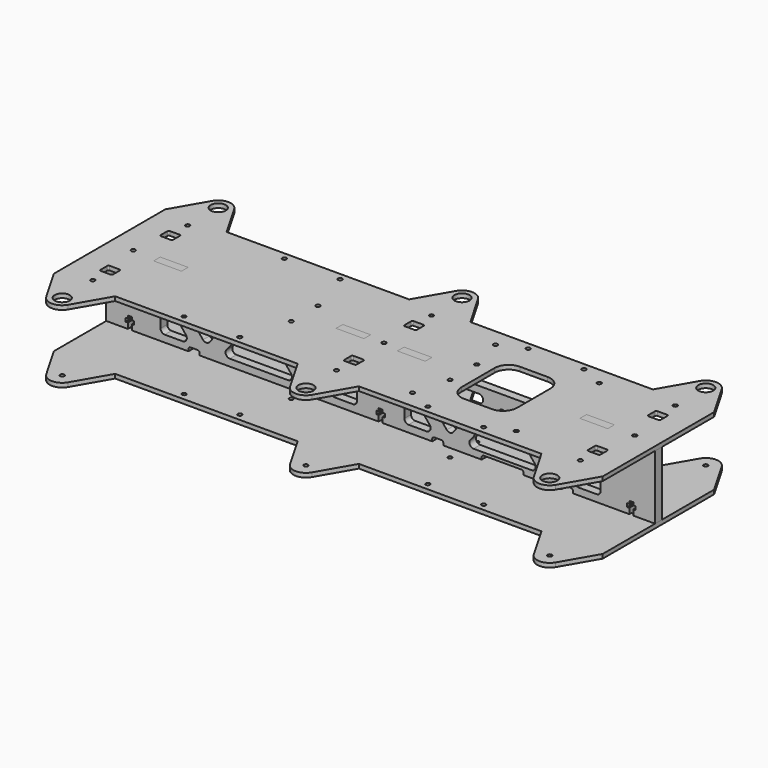
from build123d import *

# Parameters (mm, degrees)
F2_R      = 5.4
F2_R_2    = 1.5
F3_DEPTH  = 3
F5_R      = 1.5
F6_DEPTH  = 3
F7_R      = 1.5
F8_DEPTH  = 3
F11_DEPTH = 3
F13_R     = 1.5
F14_DEPTH = 52.001
F15_R     = 1.5
F16_DEPTH = 3
F18_DEPTH = 82.0535588833
F19_R     = 1.5
F20_DEPTH = 3


with BuildPart() as f3:
    # F2 (on Top) → F3 (new body)
    with BuildSketch(Plane.XY):
        with BuildLine():
            Line((22, -20), (7.8397459622, 4.5262794416))
            ThreePointArc((7.8397459622, 4.5262794416), (0, 9.0525588833), (-7.8397459622, 4.5262794416))
            Line((-7.8397459622, 4.5262794416), (-22, -20))
            Line((-22, -20), (-153, -20))
            Line((-153, -20), (-167.1602540378, 4.5262794416))
            ThreePointArc((-167.1602540378, 4.5262794416), (-175, 9.0525588833), (-182.8397459622, 4.5262794416))
            Line((-182.8397459622, 4.5262794416), (-197, -20))
            Line((-197, -20), (-328, -20))
            Line((-328, -20), (-342.1602540378, 4.5262794416))
            ThreePointArc((-342.1602540378, 4.5262794416), (-350, 9.0525588833), (-357.8397459622, 4.5262794416))
            Line((-357.8397459622, 4.5262794416), (-372, -20))
            Line((-372, -20), (-372, -70))
            Line((-372, -70), (-372, -120))
            Line((-372, -120), (-357.8397459622, -144.5262794416))
            ThreePointArc((-357.8397459622, -144.5262794416), (-350, -149.0525588833), (-342.1602540378, -144.5262794416))
            Line((-342.1602540378, -144.5262794416), (-328, -120))
            Line((-328, -120), (-197, -120))
            Line((-197, -120), (-182.8397459622, -144.5262794416))
            ThreePointArc((-182.8397459622, -144.5262794416), (-175, -149.0525588833), (-167.1602540378, -144.5262794416))
            Line((-167.1602540378, -144.5262794416), (-153, -120))
            Line((-153, -120), (-22, -120))
            Line((-22, -120), (-7.8397459622, -144.5262794416))
            ThreePointArc((-7.8397459622, -144.5262794416), (0, -149.0525588833), (7.8397459622, -144.5262794416))
            Line((7.8397459622, -144.5262794416), (22, -120))
            Line((22, -120), (22, -70))
            Line((22, -70), (22, -20))
        make_face()
        with Locations((-350, -140)):
            Circle(F2_R, mode=Mode.SUBTRACT)
        with Locations((-350, -112.57)):
            Circle(F2_R_2, mode=Mode.SUBTRACT)
        with Locations((-282.5, -115)):
            Circle(F2_R_2, mode=Mode.SUBTRACT)
        with Locations((-175, -140)):
            Circle(F2_R, mode=Mode.SUBTRACT)
        with Locations((-242.5, -115)):
            Circle(F2_R_2, mode=Mode.SUBTRACT)
        with Locations((-175, -112.57)):
            Circle(F2_R_2, mode=Mode.SUBTRACT)
        with BuildLine():
            ThreePointArc((-346.5, -93), (-345.7928932188, -93.2928932188), (-345.5, -94))
            Line((-345.5, -94), (-345.5, -100))
            ThreePointArc((-345.5, -100), (-345.7928932188, -100.7071067812), (-346.5, -101))
            Line((-346.5, -101), (-353.5, -101))
            ThreePointArc((-353.5, -101), (-354.2071067812, -100.7071067812), (-354.5, -100))
            Line((-354.5, -100), (-354.5, -94))
            ThreePointArc((-354.5, -94), (-354.2071067812, -93.2928932188), (-353.5, -93))
            Line((-353.5, -93), (-346.5, -93))
        make_face(mode=Mode.SUBTRACT)
        with BuildLine():
            Line((-179.5, -100), (-179.5, -94))
            ThreePointArc((-179.5, -94), (-179.2071067812, -93.2928932188), (-178.5, -93))
            Line((-178.5, -93), (-171.5, -93))
            ThreePointArc((-171.5, -93), (-170.7928932188, -93.2928932188), (-170.5, -94))
            Line((-170.5, -94), (-170.5, -100))
            ThreePointArc((-170.5, -100), (-170.7928932188, -100.7071067812), (-171.5, -101))
            Line((-171.5, -101), (-178.5, -101))
            ThreePointArc((-178.5, -101), (-179.2071067812, -100.7071067812), (-179.5, -100))
        make_face(mode=Mode.SUBTRACT)
        with Locations((-107.5, -115)):
            Circle(F2_R_2, mode=Mode.SUBTRACT)
        with Locations((0, -140)):
            Circle(F2_R, mode=Mode.SUBTRACT)
        with Locations((-67.5, -115)):
            Circle(F2_R_2, mode=Mode.SUBTRACT)
        with Locations((0, -112.57)):
            Circle(F2_R_2, mode=Mode.SUBTRACT)
        with BuildLine():
            ThreePointArc((3.5, -93), (4.2071067812, -93.2928932188), (4.5, -94))
            Line((4.5, -94), (4.5, -100))
            ThreePointArc((4.5, -100), (4.2071067812, -100.7071067812), (3.5, -101))
            Line((3.5, -101), (-3.5, -101))
            ThreePointArc((-3.5, -101), (-4.2071067812, -100.7071067812), (-4.5, -100))
            Line((-4.5, -100), (-4.5, -94))
            ThreePointArc((-4.5, -94), (-4.2071067812, -93.2928932188), (-3.5, -93))
            Line((-3.5, -93), (3.5, -93))
        make_face(mode=Mode.SUBTRACT)
        with BuildLine():
            Line((-353.5, -39), (-346.5, -39))
            ThreePointArc((-346.5, -39), (-345.7928932188, -39.2928932188), (-345.5, -40))
            Line((-345.5, -40), (-345.5, -46))
            ThreePointArc((-345.5, -46), (-345.7928932188, -46.7071067812), (-346.5, -47))
            Line((-346.5, -47), (-353.5, -47))
            ThreePointArc((-353.5, -47), (-354.2071067812, -46.7071067812), (-354.5, -46))
            Line((-354.5, -46), (-354.5, -40))
            ThreePointArc((-354.5, -40), (-354.2071067812, -39.2928932188), (-353.5, -39))
        make_face(mode=Mode.SUBTRACT)
        with BuildLine():
            Line((-178.5, -39), (-171.5, -39))
            ThreePointArc((-171.5, -39), (-170.7928932188, -39.2928932188), (-170.5, -40))
            Line((-170.5, -40), (-170.5, -46))
            ThreePointArc((-170.5, -46), (-170.7928932188, -46.7071067812), (-171.5, -47))
            Line((-171.5, -47), (-178.5, -47))
            ThreePointArc((-178.5, -47), (-179.2071067812, -46.7071067812), (-179.5, -46))
            Line((-179.5, -46), (-179.5, -40))
            ThreePointArc((-179.5, -40), (-179.2071067812, -39.2928932188), (-178.5, -39))
        make_face(mode=Mode.SUBTRACT)
        with Locations((-350, -27.43)):
            Circle(F2_R_2, mode=Mode.SUBTRACT)
        with Locations((-282.5, -25)):
            Circle(F2_R_2, mode=Mode.SUBTRACT)
        with Locations((-350, 0)):
            Circle(F2_R, mode=Mode.SUBTRACT)
        with Locations((-242.5, -25)):
            Circle(F2_R_2, mode=Mode.SUBTRACT)
        with Locations((-175, -27.43)):
            Circle(F2_R_2, mode=Mode.SUBTRACT)
        with Locations((-175, 0)):
            Circle(F2_R, mode=Mode.SUBTRACT)
        with BuildLine():
            ThreePointArc((4.5, -46), (4.2071067812, -46.7071067812), (3.5, -47))
            Line((3.5, -47), (-3.5, -47))
            ThreePointArc((-3.5, -47), (-4.2071067812, -46.7071067812), (-4.5, -46))
            Line((-4.5, -46), (-4.5, -40))
            ThreePointArc((-4.5, -40), (-4.2071067812, -39.2928932188), (-3.5, -39))
            Line((-3.5, -39), (3.5, -39))
            ThreePointArc((3.5, -39), (4.2071067812, -39.2928932188), (4.5, -40))
            Line((4.5, -40), (4.5, -46))
        make_face(mode=Mode.SUBTRACT)
        with Locations((-107.5, -25)):
            Circle(F2_R_2, mode=Mode.SUBTRACT)
        with Locations((-67.5, -25)):
            Circle(F2_R_2, mode=Mode.SUBTRACT)
        with Locations((0, -27.43)):
            Circle(F2_R_2, mode=Mode.SUBTRACT)
        Circle(F2_R, mode=Mode.SUBTRACT)
    extrude(amount=F3_DEPTH)

    # F7 (on face) → F8 (cut, through all)
    with BuildSketch(Plane.XY.offset(3)):
        with Locations((-124.75, -32.75)):
            Circle(F7_R)
        with Locations((-50.25, -32.75)):
            Circle(F7_R)
        with Locations((-50.25, -107.25)):
            Circle(F7_R)
        with Locations((-124.75, -107.25)):
            Circle(F7_R)
    extrude(amount=-F8_DEPTH, mode=Mode.SUBTRACT)


with BuildPart() as f6:
    # F5 (on offset) → F6 (new body)
    with BuildSketch(Plane(origin=(0, 0, -46), x_dir=(1, 0, 0), z_dir=(0, 0, -1))):
        with BuildLine():
            ThreePointArc((-7.8397459622, -4.5262794416), (0, -9.0525588833), (7.8397459622, -4.5262794416))
            Line((7.8397459622, -4.5262794416), (22, 20))
            Line((22, 20), (22, 120))
            Line((22, 120), (7.8397459622, 144.5262794416))
            ThreePointArc((7.8397459622, 144.5262794416), (0, 149.0525588833), (-7.8397459622, 144.5262794416))
            Line((-7.8397459622, 144.5262794416), (-22, 120))
            Line((-22, 120), (-153, 120))
            Line((-153, 120), (-167.1602540378, 144.5262794416))
            ThreePointArc((-167.1602540378, 144.5262794416), (-175, 149.0525588833), (-182.8397459622, 144.5262794416))
            Line((-182.8397459622, 144.5262794416), (-197, 120))
            Line((-197, 120), (-328, 120))
            Line((-328, 120), (-342.1602540378, 144.5262794416))
            ThreePointArc((-342.1602540378, 144.5262794416), (-350, 149.0525588833), (-357.8397459622, 144.5262794416))
            Line((-357.8397459622, 144.5262794416), (-372, 120))
            Line((-372, 120), (-372, 20))
            Line((-372, 20), (-357.8397459622, -4.5262794416))
            ThreePointArc((-357.8397459622, -4.5262794416), (-350, -9.0525588833), (-342.1602540378, -4.5262794416))
            Line((-342.1602540378, -4.5262794416), (-328, 20))
            Line((-328, 20), (-197, 20))
            Line((-197, 20), (-182.8397459622, -4.5262794416))
            ThreePointArc((-182.8397459622, -4.5262794416), (-175, -9.0525588833), (-167.1602540378, -4.5262794416))
            Line((-167.1602540378, -4.5262794416), (-153, 20))
            Line((-153, 20), (-22, 20))
            Line((-22, 20), (-7.8397459622, -4.5262794416))
        make_face()
        with Locations((-350, 0)):
            Circle(F5_R, mode=Mode.SUBTRACT)
        with Locations((-282.5, 25)):
            Circle(F5_R, mode=Mode.SUBTRACT)
        with Locations((-175, 0)):
            Circle(F5_R, mode=Mode.SUBTRACT)
        with Locations((-242.5, 25)):
            Circle(F5_R, mode=Mode.SUBTRACT)
        with Locations((-107.5, 25)):
            Circle(F5_R, mode=Mode.SUBTRACT)
        Circle(F5_R, mode=Mode.SUBTRACT)
        with Locations((-67.5, 25)):
            Circle(F5_R, mode=Mode.SUBTRACT)
        with Locations((-282.5, 115)):
            Circle(F5_R, mode=Mode.SUBTRACT)
        with Locations((-350, 140)):
            Circle(F5_R, mode=Mode.SUBTRACT)
        with Locations((-242.5, 115)):
            Circle(F5_R, mode=Mode.SUBTRACT)
        with Locations((-175, 140)):
            Circle(F5_R, mode=Mode.SUBTRACT)
        with Locations((-107.5, 115)):
            Circle(F5_R, mode=Mode.SUBTRACT)
        with Locations((-67.5, 115)):
            Circle(F5_R, mode=Mode.SUBTRACT)
        with Locations((0, 140)):
            Circle(F5_R, mode=Mode.SUBTRACT)
    extrude(amount=F6_DEPTH)


with BuildPart() as f11:
    # F10 (on line) → F11 (new body, symmetric)
    with BuildSketch(Plane(origin=(0, -70, 0), x_dir=(-1, 0, 0), z_dir=(0, 1, 0))):
        with BuildLine():
            Line((372, -46), (372, -23))
            Line((372, -23), (372, 0))
            Line((372, 0), (356.5, 0))
            Line((356.5, 0), (356.5, -4))
            Line((356.5, -4), (358, -4))
            Line((358, -4), (358, -6.5))
            Line((358, -6.5), (356.5, -6.5))
            Line((356.5, -6.5), (356.5, -8.5))
            Line((356.5, -8.5), (353.5, -8.5))
            Line((353.5, -8.5), (353.5, -6.5))
            Line((353.5, -6.5), (352, -6.5))
            Line((352, -6.5), (352, -4))
            Line((352, -4), (353.5, -4))
            Line((353.5, -4), (353.5, 0))
            Line((353.5, 0), (338, 0))
            Line((338, 0), (338, 3))
            Line((338, 3), (318, 3))
            Line((318, 3), (318, 0))
            Line((318, 0), (207, 0))
            Line((207, 0), (207, 3))
            Line((207, 3), (187, 3))
            Line((187, 3), (187, 0))
            Line((187, 0), (176.5, 0))
            Line((176.5, 0), (176.5, -4))
            Line((176.5, -4), (178, -4))
            Line((178, -4), (178, -6.5))
            Line((178, -6.5), (176.5, -6.5))
            Line((176.5, -6.5), (176.5, -8.5))
            Line((176.5, -8.5), (173.5, -8.5))
            Line((173.5, -8.5), (173.5, -6.5))
            Line((173.5, -6.5), (172, -6.5))
            Line((172, -6.5), (172, -4))
            Line((172, -4), (173.5, -4))
            Line((173.5, -4), (173.5, 0))
            Line((173.5, 0), (163, 0))
            Line((163, 0), (163, 3))
            Line((163, 3), (143, 3))
            Line((143, 3), (143, 0))
            Line((143, 0), (32, 0))
            Line((32, 0), (32, 3))
            Line((32, 3), (12, 3))
            Line((12, 3), (12, 0))
            Line((12, 0), (-3.5, 0))
            Line((-3.5, 0), (-3.5, -4))
            Line((-3.5, -4), (-2, -4))
            Line((-2, -4), (-2, -6.5))
            Line((-2, -6.5), (-3.5, -6.5))
            Line((-3.5, -6.5), (-3.5, -8.5))
            Line((-3.5, -8.5), (-6.5, -8.5))
            Line((-6.5, -8.5), (-6.5, -6.5))
            Line((-6.5, -6.5), (-8, -6.5))
            Line((-8, -6.5), (-8, -4))
            Line((-8, -4), (-6.5, -4))
            Line((-6.5, -4), (-6.5, 0))
            Line((-6.5, 0), (-22, 0))
            Line((-22, 0), (-22, -23))
            Line((-22, -23), (-22, -46))
            Line((-22, -46), (-6.5, -46))
            Line((-6.5, -46), (-6.5, -42))
            Line((-6.5, -42), (-8, -42))
            Line((-8, -42), (-8, -39.5))
            Line((-8, -39.5), (-6.5, -39.5))
            Line((-6.5, -39.5), (-6.5, -37.5))
            Line((-6.5, -37.5), (-3.5, -37.5))
            Line((-3.5, -37.5), (-3.5, -39.5))
            Line((-3.5, -39.5), (-2, -39.5))
            Line((-2, -39.5), (-2, -42))
            Line((-2, -42), (-3.5, -42))
            Line((-3.5, -42), (-3.5, -46))
            Line((-3.5, -46), (12, -46))
            Line((12, -46), (12, -49))
            Line((12, -49), (32, -49))
            Line((32, -49), (32, -46))
            Line((32, -46), (37, -46))
            Line((37, -46), (37, -44.5))
            ThreePointArc((37, -44.5), (37.4393398282, -43.4393398282), (38.5, -43))
            Line((38.5, -43), (43.5, -43))
            ThreePointArc((43.5, -43), (44.5606601718, -43.4393398282), (45, -44.5))
            Line((45, -44.5), (45, -46))
            Line((45, -46), (72.5, -46))
            Line((72.5, -46), (72.5, -44.5))
            ThreePointArc((72.5, -44.5), (72.9393398282, -43.4393398282), (74, -43))
            Line((74, -43), (101, -43))
            ThreePointArc((101, -43), (102.0606601718, -43.4393398282), (102.5, -44.5))
            Line((102.5, -44.5), (102.5, -46))
            Line((102.5, -46), (130, -46))
            Line((130, -46), (130, -44.5))
            ThreePointArc((130, -44.5), (130.4393398282, -43.4393398282), (131.5, -43))
            Line((131.5, -43), (136.5, -43))
            ThreePointArc((136.5, -43), (137.5606601718, -43.4393398282), (138, -44.5))
            Line((138, -44.5), (138, -46))
            Line((138, -46), (143, -46))
            Line((143, -46), (143, -49))
            Line((143, -49), (163, -49))
            Line((163, -49), (163, -46))
            Line((163, -46), (173.5, -46))
            Line((173.5, -46), (173.5, -42))
            Line((173.5, -42), (172, -42))
            Line((172, -42), (172, -39.5))
            Line((172, -39.5), (173.5, -39.5))
            Line((173.5, -39.5), (173.5, -37.5))
            Line((173.5, -37.5), (176.5, -37.5))
            Line((176.5, -37.5), (176.5, -39.5))
            Line((176.5, -39.5), (178, -39.5))
            Line((178, -39.5), (178, -42))
            Line((178, -42), (176.5, -42))
            Line((176.5, -42), (176.5, -46))
            Line((176.5, -46), (187, -46))
            Line((187, -46), (187, -49))
            Line((187, -49), (207, -49))
            Line((207, -49), (207, -46))
            Line((207, -46), (305, -46))
            Line((305, -46), (305, -44.5))
            ThreePointArc((305, -44.5), (305.4393398282, -43.4393398282), (306.5, -43))
            Line((306.5, -43), (311.5, -43))
            ThreePointArc((311.5, -43), (312.5606601718, -43.4393398282), (313, -44.5))
            Line((313, -44.5), (313, -46))
            Line((313, -46), (318, -46))
            Line((318, -46), (318, -49))
            Line((318, -49), (338, -49))
            Line((338, -49), (338, -46))
            Line((338, -46), (353.5, -46))
            Line((353.5, -46), (353.5, -42))
            Line((353.5, -42), (352, -42))
            Line((352, -42), (352, -39.5))
            Line((352, -39.5), (353.5, -39.5))
            Line((353.5, -39.5), (353.5, -37.5))
            Line((353.5, -37.5), (356.5, -37.5))
            Line((356.5, -37.5), (356.5, -39.5))
            Line((356.5, -39.5), (358, -39.5))
            Line((358, -39.5), (358, -42))
            Line((358, -42), (356.5, -42))
            Line((356.5, -42), (356.5, -46))
            Line((356.5, -46), (372, -46))
        make_face()
    extrude(amount=F11_DEPTH, both=True)


with BuildPart() as f6_1:
    add(f6.part)

    # F12: cut F11
    add(f11.part, mode=Mode.SUBTRACT)


with BuildPart() as f3_1:
    add(f3.part)

    # F12: cut F11
    add(f11.part, mode=Mode.SUBTRACT)


with BuildPart() as f14_tool:
    # F13 (on face) → F14 (new body, through all)
    with BuildSketch(Plane(origin=(0, 0, -49), x_dir=(1, 0, 0), z_dir=(0, 0, -1))):
        with Locations((-232, 58)):
            Circle(F13_R)
        with Locations((-118, 58)):
            Circle(F13_R)
        with Locations((-232, 82)):
            Circle(F13_R)
        with Locations((-118, 82)):
            Circle(F13_R)
    extrude(amount=-F14_DEPTH)


with BuildPart() as f3_2:
    add(f3_1.part)

    # F14: cut by f14_tool
    add(f14_tool.part, mode=Mode.SUBTRACT)

    # F15 (on face) → F16 (cut, through all)
    with BuildSketch(Plane.XY.offset(3)):
        with Locations((-355, -70)):
            Circle(F15_R)
        with Locations((-175, -70)):
            Circle(F15_R)
        with Locations((5, -70)):
            Circle(F15_R)
        with BuildLine():
            Line((-97.5, -95), (-77.5, -95))
            ThreePointArc((-77.5, -95), (-70.4289321881, -92.0710678119), (-67.5, -85))
            Line((-67.5, -85), (-67.5, -55))
            ThreePointArc((-67.5, -55), (-70.4289321881, -47.9289321881), (-77.5, -45))
            Line((-77.5, -45), (-97.5, -45))
            ThreePointArc((-97.5, -45), (-104.5710678119, -47.9289321881), (-107.5, -55))
            Line((-107.5, -55), (-107.5, -85))
            ThreePointArc((-107.5, -85), (-104.5710678119, -92.0710678119), (-97.5, -95))
        make_face()
    extrude(amount=-F16_DEPTH, mode=Mode.SUBTRACT)


with BuildPart() as f6_2:
    add(f6_1.part)

    # F14: cut by f14_tool
    add(f14_tool.part, mode=Mode.SUBTRACT)

    # F19 (on face) → F20 (cut, through all)
    with BuildSketch(Plane(origin=(0, 0, -49), x_dir=(1, 0, 0), z_dir=(0, 0, -1))):
        with Locations((-355, 70)):
            Circle(F19_R)
        with Locations((-175, 70)):
            Circle(F19_R)
        with Locations((5, 70)):
            Circle(F19_R)
    extrude(amount=-F20_DEPTH, mode=Mode.SUBTRACT)


with BuildPart() as f11_1:
    add(f11.part)

    # F17 (on face) → F18 (cut, through all)
    with BuildSketch(Plane.XZ.offset(73)):
        with BuildLine():
            Line((-279.4142308416, -5), (-321.0857691584, -5))
            ThreePointArc((-321.0857691584, -5), (-323.7977268372, -6.7173131528), (-323.4048307883, -9.903142968))
            Line((-323.4048307883, -9.903142968), (-302.5690616299, -35.2924245915))
            ThreePointArc((-302.5690616299, -35.2924245915), (-300.25, -36.3892816234), (-297.9309383701, -35.2924245915))
            Line((-297.9309383701, -35.2924245915), (-277.0951692117, -9.903142968))
            ThreePointArc((-277.0951692117, -9.903142968), (-276.7022731628, -6.7173131528), (-279.4142308416, -5))
        make_face()
        with BuildLine():
            Line((-314.8451692117, -36.096857032), (-327.6809383701, -20.4559197794))
            ThreePointArc((-327.6809383701, -20.4559197794), (-331.0106470972, -19.5344225146), (-333, -22.3590627474))
            Line((-333, -22.3590627474), (-333, -38))
            ThreePointArc((-333, -38), (-332.1213203436, -40.1213203436), (-330, -41))
            Line((-330, -41), (-317.1642308416, -41))
            ThreePointArc((-317.1642308416, -41), (-314.4522731628, -39.2826868472), (-314.8451692117, -36.096857032))
        make_face()
        with BuildLine():
            Line((-264.8190616299, -10.7075754085), (-285.6548307883, -36.096857032))
            ThreePointArc((-285.6548307883, -36.096857032), (-286.0477268372, -39.2826868472), (-283.3357691584, -41))
            Line((-283.3357691584, -41), (-241.6642308416, -41))
            ThreePointArc((-241.6642308416, -41), (-238.9522731628, -39.2826868472), (-239.3451692117, -36.096857032))
            Line((-239.3451692117, -36.096857032), (-260.1809383701, -10.7075754085))
            ThreePointArc((-260.1809383701, -10.7075754085), (-262.5, -9.6107183766), (-264.8190616299, -10.7075754085))
        make_face()
        with BuildLine():
            Line((-203.9142308416, -5), (-245.5857691584, -5))
            ThreePointArc((-245.5857691584, -5), (-248.2977268372, -6.7173131528), (-247.9048307883, -9.903142968))
            Line((-247.9048307883, -9.903142968), (-227.0690616299, -35.2924245915))
            ThreePointArc((-227.0690616299, -35.2924245915), (-224.75, -36.3892816234), (-222.4309383701, -35.2924245915))
            Line((-222.4309383701, -35.2924245915), (-201.5951692117, -9.903142968))
            ThreePointArc((-201.5951692117, -9.903142968), (-201.2022731628, -6.7173131528), (-203.9142308416, -5))
        make_face()
        with BuildLine():
            ThreePointArc((-210.1548307883, -36.096857032), (-210.5477268372, -39.2826868472), (-207.8357691584, -41))
            Line((-207.8357691584, -41), (-195, -41))
            ThreePointArc((-195, -41), (-192.8786796564, -40.1213203436), (-192, -38))
            Line((-192, -38), (-192, -22.3590627474))
            ThreePointArc((-192, -22.3590627474), (-193.9893529028, -19.5344225146), (-197.3190616299, -20.4559197794))
            Line((-197.3190616299, -20.4559197794), (-210.1548307883, -36.096857032))
        make_face()
        with BuildLine():
            Line((-17, -38), (-17, -22.3590627474))
            ThreePointArc((-17, -22.3590627474), (-18.9893529028, -19.5344225146), (-22.3190616299, -20.4559197794))
            Line((-22.3190616299, -20.4559197794), (-35.1548307883, -36.096857032))
            ThreePointArc((-35.1548307883, -36.096857032), (-35.5477268372, -39.2826868472), (-32.8357691584, -41))
            Line((-32.8357691584, -41), (-20, -41))
            ThreePointArc((-20, -41), (-17.8786796564, -40.1213203436), (-17, -38))
        make_face()
        with BuildLine():
            Line((-64.3451692117, -36.096857032), (-85.1809383701, -10.7075754085))
            ThreePointArc((-85.1809383701, -10.7075754085), (-87.5, -9.6107183766), (-89.8190616299, -10.7075754085))
            Line((-89.8190616299, -10.7075754085), (-110.6548307883, -36.096857032))
            ThreePointArc((-110.6548307883, -36.096857032), (-111.0477268372, -39.2826868472), (-108.3357691584, -41))
            Line((-108.3357691584, -41), (-66.6642308416, -41))
            ThreePointArc((-66.6642308416, -41), (-63.9522731628, -39.2826868472), (-64.3451692117, -36.096857032))
        make_face()
        with BuildLine():
            ThreePointArc((-52.0690616299, -35.2924245915), (-49.75, -36.3892816234), (-47.4309383701, -35.2924245915))
            Line((-47.4309383701, -35.2924245915), (-26.5951692117, -9.903142968))
            ThreePointArc((-26.5951692117, -9.903142968), (-26.2022731628, -6.7173131528), (-28.9142308416, -5))
            Line((-28.9142308416, -5), (-70.5857691584, -5))
            ThreePointArc((-70.5857691584, -5), (-73.2977268372, -6.7173131528), (-72.9048307883, -9.903142968))
            Line((-72.9048307883, -9.903142968), (-52.0690616299, -35.2924245915))
        make_face()
        with BuildLine():
            Line((-139.8451692117, -36.096857032), (-152.6809383701, -20.4559197794))
            ThreePointArc((-152.6809383701, -20.4559197794), (-156.0106470972, -19.5344225146), (-158, -22.3590627474))
            Line((-158, -22.3590627474), (-158, -38))
            ThreePointArc((-158, -38), (-157.1213203436, -40.1213203436), (-155, -41))
            Line((-155, -41), (-142.1642308416, -41))
            ThreePointArc((-142.1642308416, -41), (-139.4522731628, -39.2826868472), (-139.8451692117, -36.096857032))
        make_face()
        with BuildLine():
            ThreePointArc((-127.5690616299, -35.2924245915), (-125.25, -36.3892816234), (-122.9309383701, -35.2924245915))
            Line((-122.9309383701, -35.2924245915), (-102.0951692117, -9.903142968))
            ThreePointArc((-102.0951692117, -9.903142968), (-101.7022731628, -6.7173131528), (-104.4142308416, -5))
            Line((-104.4142308416, -5), (-146.0857691584, -5))
            ThreePointArc((-146.0857691584, -5), (-148.7977268372, -6.7173131528), (-148.4048307883, -9.903142968))
            Line((-148.4048307883, -9.903142968), (-127.5690616299, -35.2924245915))
        make_face()
    extrude(amount=-F18_DEPTH, mode=Mode.SUBTRACT)


solid = Compound([f3_2.part, f6_2.part, f11_1.part])
